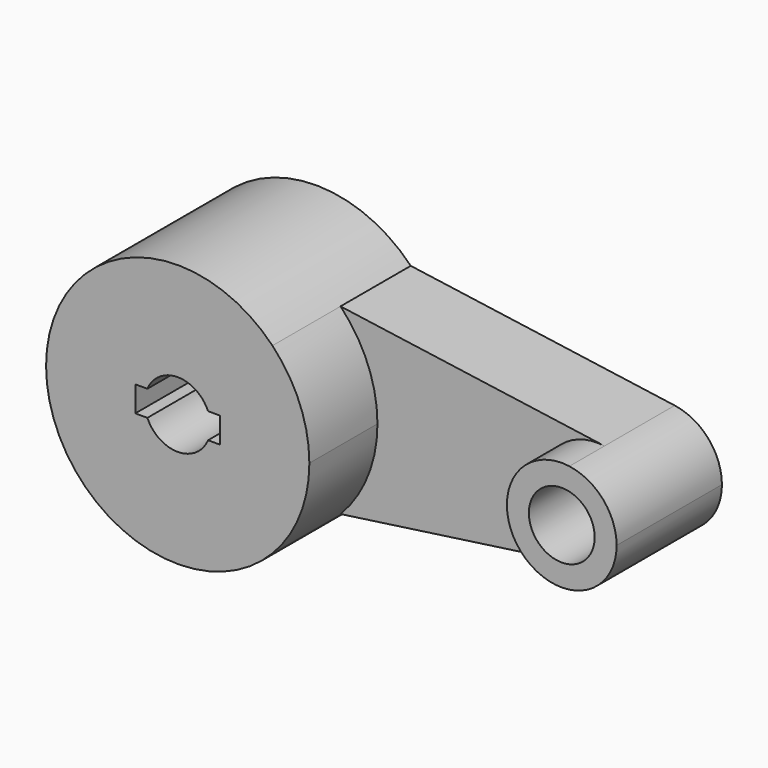
from build123d import *

# Parameters (mm, degrees)
F0_R     = 9.525
F1_DEPTH = 25.4
F2_DEPTH = 50.03695
F3_DEPTH = 38.1


with BuildPart() as f1:
    # F0 (on Front) → F1 (new body)
    with BuildSketch(Plane.XZ):
        with BuildLine():
            ThreePointArc((-28.862271, 26.460221), (-20.947828, 14.268476), (-18.175163, 0))
            ThreePointArc((-18.175163, 0), (-20.947828, -14.268476), (-28.862271, -26.460221))
            Line((-28.862271, -26.460221), (47.534793, -15.720424))
            ThreePointArc((47.534793, -15.720424), (29.449837, 0), (47.534793, 15.720424))
            Line((47.534793, 15.720424), (-28.862271, 26.460221))
        make_face()
        with BuildLine():
            ThreePointArc((61.199837, 0), (57.306044, 10.414715), (47.534793, 15.720424))
            ThreePointArc((47.534793, 15.720424), (29.449837, 0), (47.534793, -15.720424))
            ThreePointArc((47.534793, -15.720424), (57.306044, -10.414715), (61.199837, 0))
        make_face()
        with Locations((45.324837, 0)):
            Circle(F0_R, mode=Mode.SUBTRACT)
        with BuildLine():
            ThreePointArc((-28.862271, -26.460221), (-20.947828, -14.268476), (-18.175163, 0))
            ThreePointArc((-18.175163, 0), (-20.947828, 14.268476), (-28.862271, 26.460221))
            ThreePointArc((-28.862271, 26.460221), (-94.375163, 0), (-28.862271, -26.460221))
        make_face()
        with BuildLine():
            ThreePointArc((-65.050929, 3.702913), (-56.275163, 9.525), (-47.499398, 3.702913))
            Line((-47.499398, 3.702913), (-43.999273, 3.702913))
            Line((-43.999273, 3.702913), (-43.999273, -3.702913))
            Line((-43.999273, -3.702913), (-47.499398, -3.702913))
            ThreePointArc((-47.499398, -3.702913), (-56.275163, -9.525), (-65.050929, -3.702913))
            Line((-65.050929, -3.702913), (-68.551053, -3.702913))
            Line((-68.551053, -3.702913), (-68.551053, 3.702913))
            Line((-68.551053, 3.702913), (-65.050929, 3.702913))
        make_face(mode=Mode.SUBTRACT)
    extrude(amount=F1_DEPTH)

    # F0 (on Front) → F2 (join)
    with BuildSketch(Plane.XZ):
        with BuildLine():
            ThreePointArc((-28.862271, -26.460221), (-20.947828, -14.268476), (-18.175163, 0))
            ThreePointArc((-18.175163, 0), (-20.947828, 14.268476), (-28.862271, 26.460221))
            ThreePointArc((-28.862271, 26.460221), (-94.375163, 0), (-28.862271, -26.460221))
        make_face()
        with BuildLine():
            ThreePointArc((-65.050929, 3.702913), (-56.275163, 9.525), (-47.499398, 3.702913))
            Line((-47.499398, 3.702913), (-43.999273, 3.702913))
            Line((-43.999273, 3.702913), (-43.999273, -3.702913))
            Line((-43.999273, -3.702913), (-47.499398, -3.702913))
            ThreePointArc((-47.499398, -3.702913), (-56.275163, -9.525), (-65.050929, -3.702913))
            Line((-65.050929, -3.702913), (-68.551053, -3.702913))
            Line((-68.551053, -3.702913), (-68.551053, 3.702913))
            Line((-68.551053, 3.702913), (-65.050929, 3.702913))
        make_face(mode=Mode.SUBTRACT)
    extrude(amount=F2_DEPTH)

    # F0 (on Front) → F3 (join)
    with BuildSketch(Plane.XZ):
        with BuildLine():
            ThreePointArc((61.199837, 0), (57.306044, 10.414715), (47.534793, 15.720424))
            ThreePointArc((47.534793, 15.720424), (29.449837, 0), (47.534793, -15.720424))
            ThreePointArc((47.534793, -15.720424), (57.306044, -10.414715), (61.199837, 0))
        make_face()
        with Locations((45.324837, 0)):
            Circle(F0_R, mode=Mode.SUBTRACT)
    extrude(amount=F3_DEPTH)


solid = f1.part
